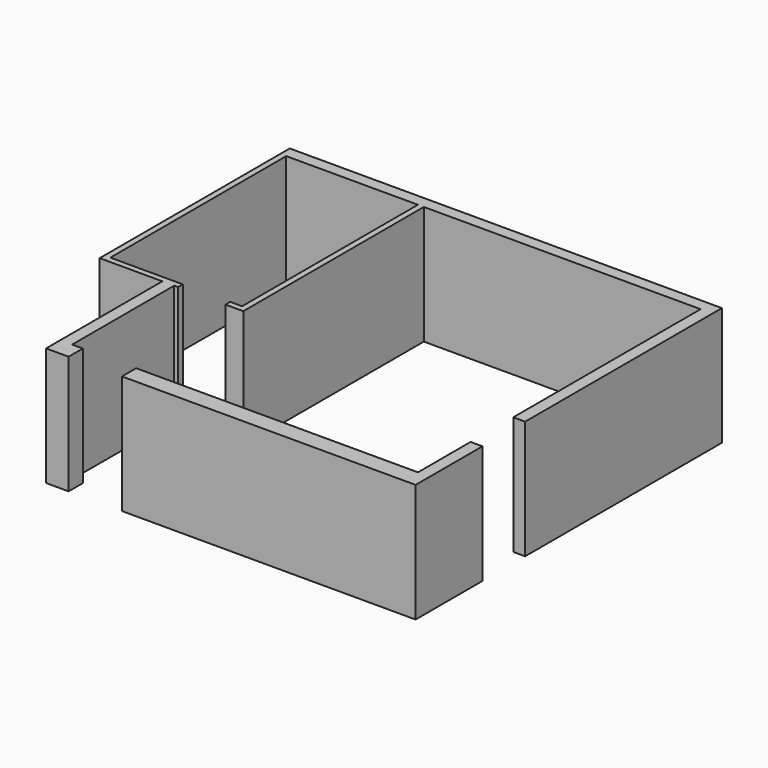
from build123d import *

# Parameters (mm, degrees)
F1_DEPTH = 2000


with BuildPart() as f1:
    # F0 (on Top) → F1 (new body)
    with BuildSketch(Plane.XY):
        Polygon((-4954, 0), (0, 0), (0, 1410), (-200, 1410), (-200, 300), (-4954, 300), align=None)
        Polygon((-200, 2310), (0, 2310), (0, 6460), (-7291, 6460), (-7291, 2452), (-6234, 2452), (-6234, 0), (-5854, 0), (-5854, 300), (-6034, 300), (-6034, 2452), (-5969, 2452), (-5969, 2552), (-7191, 2552), (-7191, 6260), (-4969, 6260), (-4969, 2552), (-5169, 2552), (-5169, 2452), (-4869, 2452), (-4869, 6260), (-200, 6260), align=None)
    extrude(amount=F1_DEPTH)


solid = f1.part
